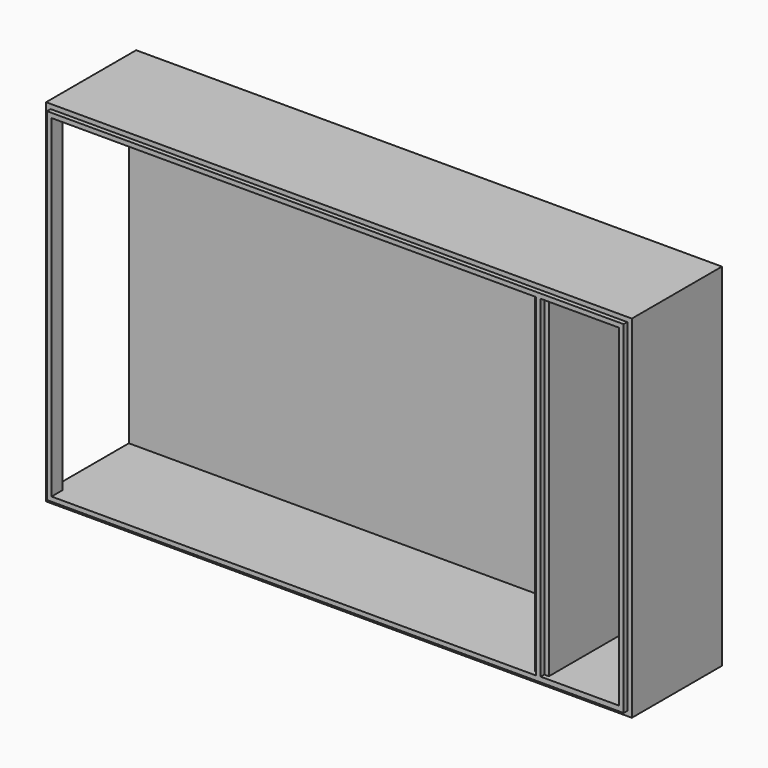
from build123d import *

# Parameters (mm, degrees)
F0_W      = 127
F0_H      = 76.2
F1_DEPTH  = 25.4
F2_W      = 15.9999934
F2_H      = 72.136
F3_DEPTH  = 23.4188
F4_W      = 0.9906
F4_H      = 72.136
F5_DEPTH  = 0.9906
F6_W      = 127
F6_H      = 0.9906
F7_DEPTH  = 0.9906
F8_W      = 0.9906
F8_H      = 75.2094
F9_DEPTH  = 0.9906
F10_W     = 0.9906
F10_H     = 75.2094
F11_DEPTH = 0.9906
F12_W     = 125.0188
F12_H     = 0.9906
F13_DEPTH = 0.9906
F14_W     = 104.0658066
F14_H     = 72.2376
F15_DEPTH = 23.4188
F16_W     = 0.9906
F16_H     = 72.2376
F17_DEPTH = 0.9906
F18_W     = 20.447
F18_H     = 72.2376
F19_DEPTH = 1.9812


with BuildPart() as f1:
    # F0 (on Front) → F1 (new body)
    with BuildSketch(Plane.XZ):
        Rectangle(F0_W, F0_H)
    extrude(amount=F1_DEPTH)

    # F2 (on face) → F3 (cut)
    with BuildSketch(Plane.XZ.offset(25.4)):
        with Locations((53.5188033, 0.0508)):
            Rectangle(F2_W, F2_H)
    extrude(amount=-F3_DEPTH, mode=Mode.SUBTRACT)

    # F4 (on face) → F5 (cut)
    with BuildSketch(Plane.XZ.offset(25.4)):
        with Locations((45.0235066, 0.0508)):
            Rectangle(F4_W, F4_H)
    extrude(amount=-F5_DEPTH, mode=Mode.SUBTRACT)

    # F6 (on face) → F7 (cut)
    with BuildSketch(Plane.XZ.offset(25.4)):
        with Locations((0, 37.6047)):
            Rectangle(F6_W, F6_H)
    extrude(amount=-F7_DEPTH, mode=Mode.SUBTRACT)

    # F8 (on face) → F9 (cut)
    with BuildSketch(Plane.XZ.offset(25.4)):
        with Locations((63.0047, -0.4953)):
            Rectangle(F8_W, F8_H)
    extrude(amount=-F9_DEPTH, mode=Mode.SUBTRACT)

    # F10 (on face) → F11 (cut)
    with BuildSketch(Plane.XZ.offset(25.4)):
        with Locations((-63.0047, -0.4953)):
            Rectangle(F10_W, F10_H)
    extrude(amount=-F11_DEPTH, mode=Mode.SUBTRACT)

    # F12 (on face) → F13 (cut)
    with BuildSketch(Plane.XZ.offset(25.4)):
        with Locations((0, -37.6047)):
            Rectangle(F12_W, F12_H)
    extrude(amount=-F13_DEPTH, mode=Mode.SUBTRACT)

    # F14 (on face) → F15 (cut)
    with BuildSketch(Plane.XZ.offset(25.4)):
        with Locations((-9.4858967, 0)):
            Rectangle(F14_W, F14_H)
    extrude(amount=-F15_DEPTH, mode=Mode.SUBTRACT)

    # F16 (on face) → F17 (cut)
    with BuildSketch(Plane.XZ.offset(25.4)):
        with Locations((43.0423066, 0)):
            Rectangle(F16_W, F16_H)
    extrude(amount=-F17_DEPTH, mode=Mode.SUBTRACT)

    # F18 (on face) → F19 (cut)
    with BuildSketch(Plane(origin=(-63.5, 0, 0), x_dir=(0, -1, 0), z_dir=(-1, 0, 0))):
        with Locations((12.2047, 0)):
            Rectangle(F18_W, F18_H)
    extrude(amount=-F19_DEPTH, mode=Mode.SUBTRACT)


solid = f1.part
